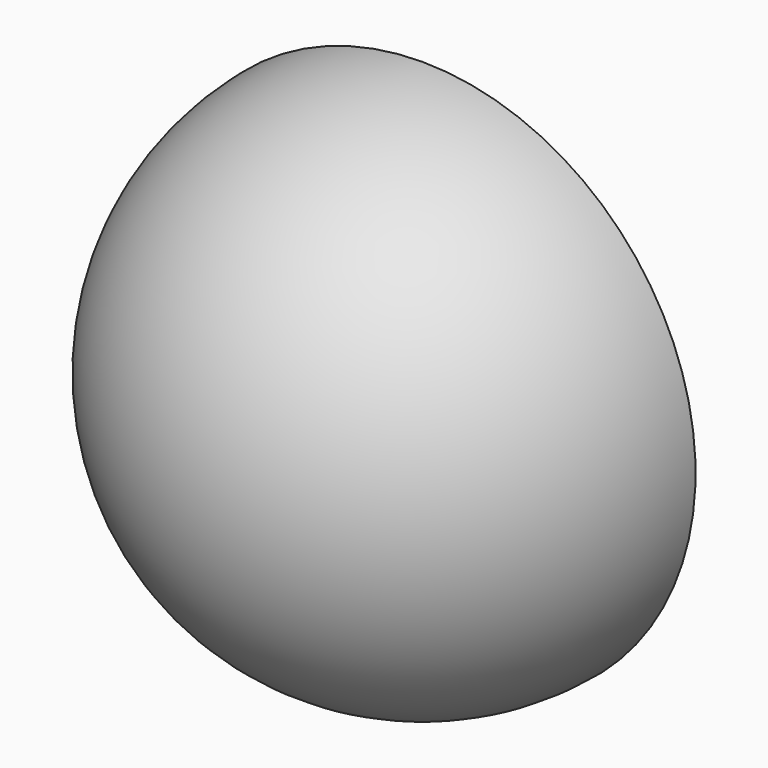
from build123d import *

# Parameters (mm, degrees)
F1_ANGLE = 180


with BuildPart() as f1:
    # F0 (on Front) → F1 (revolve)
    with BuildSketch(Plane.XZ):
        with BuildLine():
            Line((0, 59.9625543222), (0, 76.1310771713))
            ThreePointArc((0, 76.1310771713), (-76.1310771713, 0), (0, -76.1310771713))
            Line((0, -76.1310771713), (0, -59.9625543222))
            ThreePointArc((0, -59.9625543222), (-59.9625543222, 0), (0, 59.9625543222))
        make_face()
    revolve(axis=Axis((0, 0, 38.0655385857), (0, 0, 1)), revolution_arc=F1_ANGLE)


solid = f1.part
